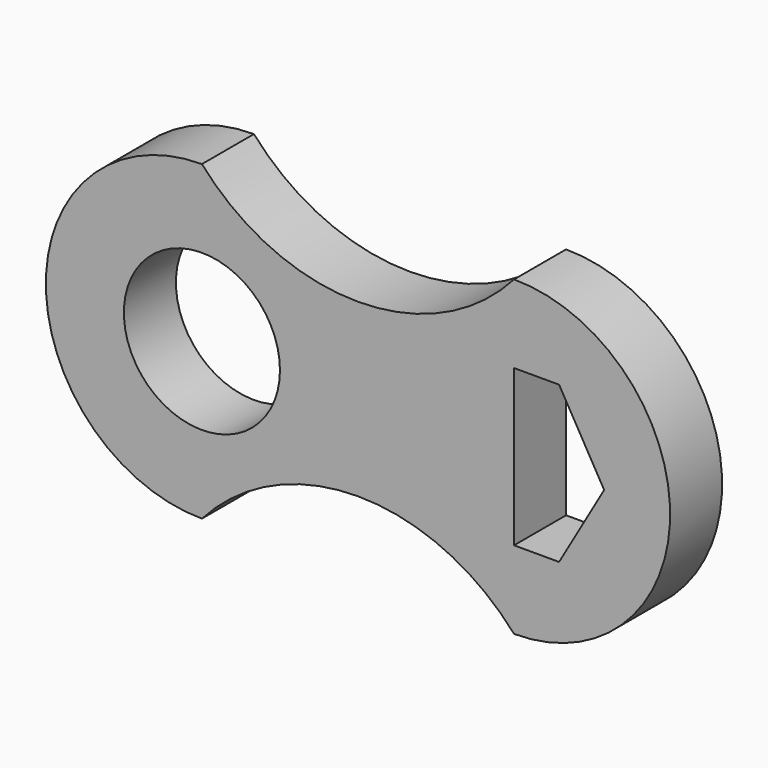
from build123d import *

# Parameters (mm, degrees)
F0_R     = 30
F1_DEPTH = 25


with BuildPart() as f1:
    # F0 (on Front) → F1 (new body)
    with BuildSketch(Plane.XZ):
        with BuildLine():
            ThreePointArc((120, 60), (60, 32.9150262213), (0, 60))
            ThreePointArc((0, 60), (-60, 0), (0, -60))
            ThreePointArc((0, -60), (60, -32.9150262213), (120, -60))
            ThreePointArc((120, -60), (180, 0), (120, 60))
        make_face()
        Circle(F0_R, mode=Mode.SUBTRACT)
        Polygon((137.3205080757, -30), (120, -30), (102.6794919243, -30), (85.3589838486, 0), (102.6794919243, 30), (120, 30), (137.3205080757, 30), (154.6410161514, 0), align=None, mode=Mode.SUBTRACT)
        Polygon((102.6794919243, -30), (120, -30), (120, 0), (120, 30), (102.6794919243, 30), (85.3589838486, 0), align=None)
    extrude(amount=F1_DEPTH)


solid = f1.part
